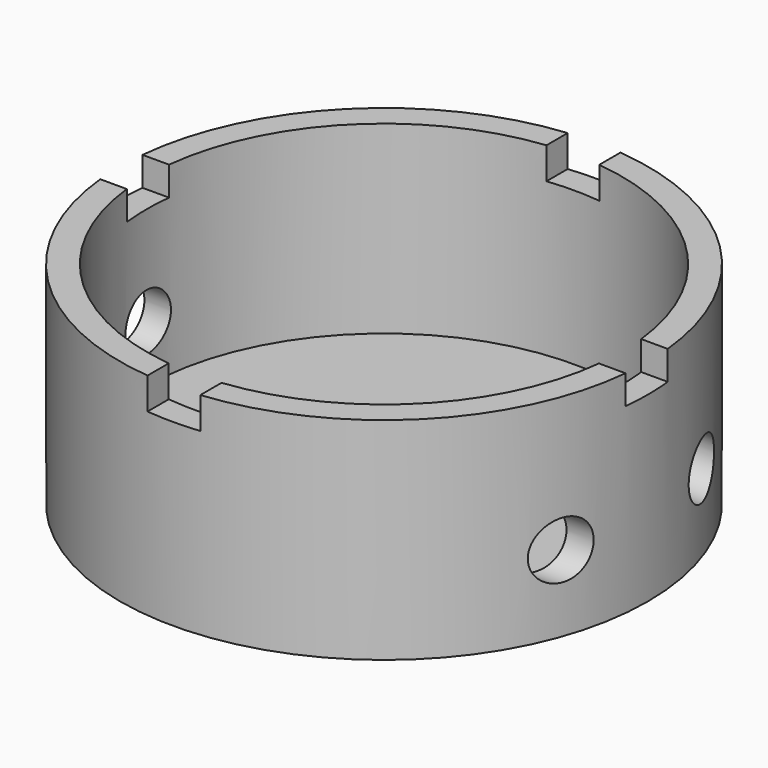
from build123d import *

# Parameters (mm, degrees)
F0_R      = 50
F1_DEPTH  = 40
F2_R      = 45
F3_DEPTH  = 35
F4_W      = 10
F4_H      = 6
F5_DEPTH  = 50
F6_W      = 10
F6_H      = 6
F7_DEPTH  = 50
F8_W      = 10
F8_H      = 5.49967
F9_DEPTH  = 50
F10_W     = 10
F10_H     = 5.49967
F11_DEPTH = 50
F12_R     = 5.4
F13_DEPTH = 59
F14_R     = 5.4
F15_DEPTH = 55


with BuildPart() as f1:
    # F0 (on Top) → F1 (new body)
    with BuildSketch(Plane.XY):
        Circle(F0_R)
    extrude(amount=F1_DEPTH)

    # F2 (on face) → F3 (cut)
    with BuildSketch(Plane.XY.offset(40)):
        Circle(F2_R)
    extrude(amount=-F3_DEPTH, mode=Mode.SUBTRACT)

    # F4 (on Front) → F5 (cut)
    with BuildSketch(Plane.XZ):
        with Locations((0, 37)):
            Rectangle(F4_W, F4_H)
    extrude(amount=-F5_DEPTH, mode=Mode.SUBTRACT)

    # F6 (on Front) → F7 (cut)
    with BuildSketch(Plane.XZ):
        with Locations((0, 37)):
            Rectangle(F6_W, F6_H)
    extrude(amount=F7_DEPTH, mode=Mode.SUBTRACT)

    # F8 (on Right) → F9 (cut)
    with BuildSketch(Plane.YZ):
        with Locations((0, 37.250165)):
            Rectangle(F8_W, F8_H)
    extrude(amount=-F9_DEPTH, mode=Mode.SUBTRACT)

    # F10 (on Right) → F11 (cut)
    with BuildSketch(Plane.YZ):
        with Locations((0, 37.250165)):
            Rectangle(F10_W, F10_H)
    extrude(amount=F11_DEPTH, mode=Mode.SUBTRACT)

    # F12 (on Right) → F13 (cut)
    with BuildSketch(Plane.YZ):
        with Locations((-16.65, 14.419014)):
            Circle(F12_R)
        with Locations((16.65, 14.419014)):
            Circle(F12_R)
    extrude(amount=F13_DEPTH, mode=Mode.SUBTRACT)

    # F14 (on Right) → F15 (cut)
    with BuildSketch(Plane.YZ):
        with Locations((0, 15.636282)):
            Circle(F14_R)
    extrude(amount=-F15_DEPTH, mode=Mode.SUBTRACT)


solid = f1.part
